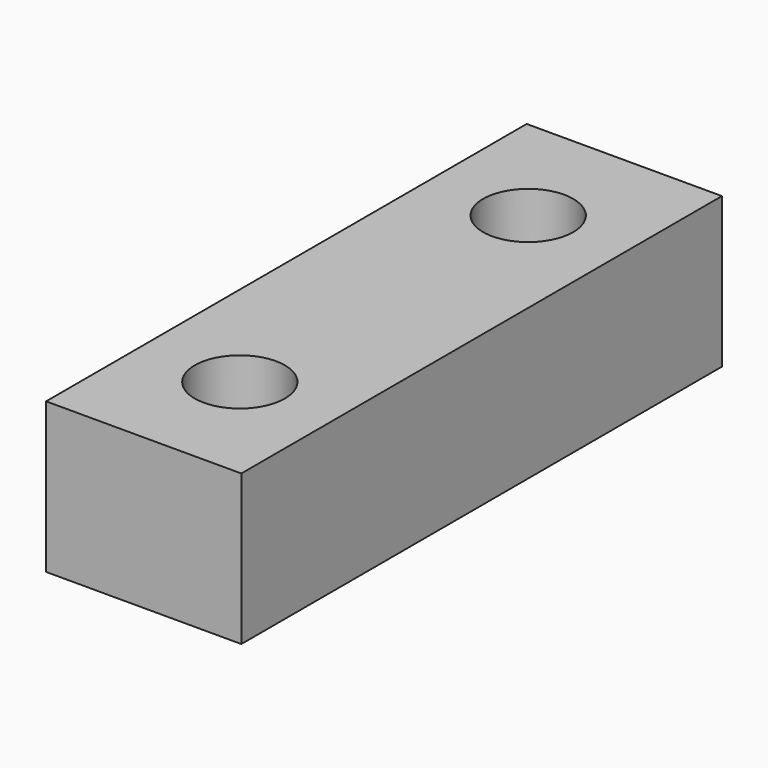
from build123d import *

# Parameters (mm, degrees)
SKETCH_W  = 6.5
SKETCH_H  = 20
SKETCH_R  = 1.5
PAD_DEPTH = 5


with BuildPart() as part:
    # Sketch → Pad (new body)
    with BuildSketch(Plane.XY):
        with Locations((3.25, 10)):
            Rectangle(SKETCH_W, SKETCH_H)
        with Locations((3.25, 16)):
            Circle(SKETCH_R, mode=Mode.SUBTRACT)
        with Locations((3.25, 4)):
            Circle(SKETCH_R, mode=Mode.SUBTRACT)
    extrude(amount=PAD_DEPTH)


solid = part.part
